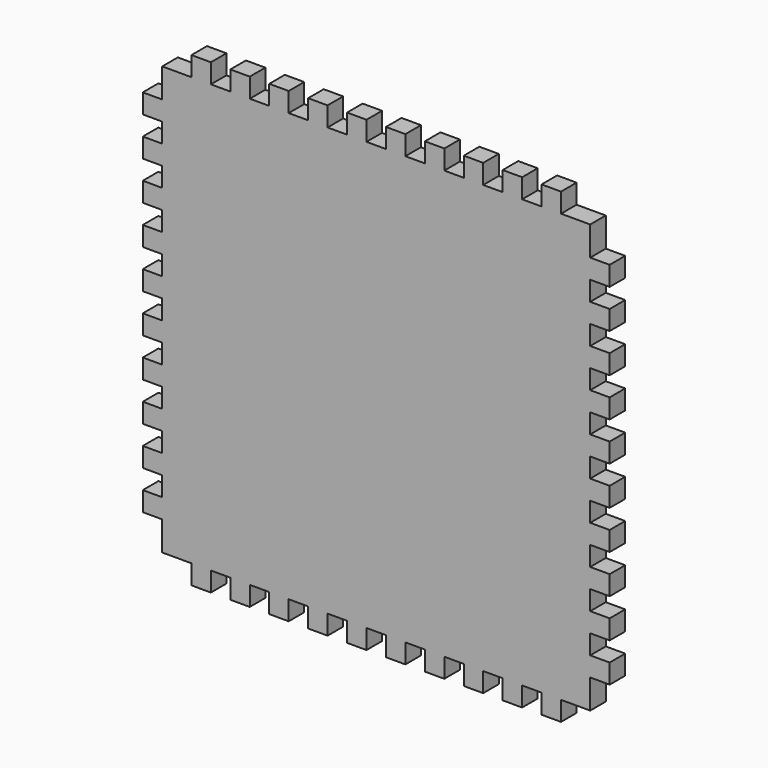
from build123d import *

# Parameters (mm, degrees)
F1_DEPTH = 12.7


with BuildPart() as f1:
    # F0 (on Front) → F1 (new body)
    with BuildSketch(Plane.XZ):
        Polygon((-120.65, 152.4), (-120.65, 139.7), (-139.7, 139.7), (-139.7, 120.65), (-152.4, 120.65), (-152.4, 107.95), (-139.7, 107.95), (-139.7, 95.25), (-152.4, 95.25), (-152.4, 82.55), (-139.7, 82.55), (-139.7, 69.85), (-152.4, 69.85), (-152.4, 57.15), (-139.7, 57.15), (-139.7, 44.45), (-152.4, 44.45), (-152.4, 31.75), (-139.7, 31.75), (-139.7, 19.05), (-152.4, 19.05), (-152.4, 6.35), (-139.7, 6.35), (-139.7, -6.35), (-152.4, -6.35), (-152.4, -19.05), (-139.7, -19.05), (-139.7, -31.75), (-152.4, -31.75), (-152.4, -44.45), (-139.7, -44.45), (-139.7, -57.15), (-152.4, -57.15), (-152.4, -69.85), (-139.7, -69.85), (-139.7, -82.55), (-152.4, -82.55), (-152.4, -95.25), (-139.7, -95.25), (-139.7, -107.95), (-152.4, -107.95), (-152.4, -120.65), (-139.7, -120.65), (-139.7, -139.7), (-120.65, -139.7), (-120.65, -152.4), (-107.95, -152.4), (-107.95, -139.7), (-95.25, -139.7), (-95.25, -152.4), (-82.55, -152.4), (-82.55, -139.7), (-69.85, -139.7), (-69.85, -152.4), (-57.15, -152.4), (-57.15, -139.7), (-44.45, -139.7), (-44.45, -152.4), (-31.75, -152.4), (-31.75, -139.7), (-19.05, -139.7), (-19.05, -152.4), (-6.35, -152.4), (-6.35, -139.7), (6.35, -139.7), (6.35, -152.4), (19.05, -152.4), (19.05, -139.7), (31.75, -139.7), (31.75, -152.4), (44.45, -152.4), (44.45, -139.7), (57.15, -139.7), (57.15, -152.4), (69.85, -152.4), (69.85, -139.7), (82.55, -139.7), (82.55, -152.4), (95.25, -152.4), (95.25, -139.7), (107.95, -139.7), (107.95, -152.4), (120.65, -152.4), (120.65, -139.7), (139.7, -139.7), (139.7, -120.65), (152.4, -120.65), (152.4, -107.95), (139.7, -107.95), (139.7, -95.25), (152.4, -95.25), (152.4, -82.55), (139.7, -82.55), (139.7, -69.85), (152.4, -69.85), (152.4, -57.15), (139.7, -57.15), (139.7, -44.45), (152.4, -44.45), (152.4, -31.75), (139.7, -31.75), (139.7, -19.05), (152.4, -19.05), (152.4, -6.35), (139.7, -6.35), (139.7, 6.35), (152.4, 6.35), (152.4, 19.05), (139.7, 19.05), (139.7, 31.75), (152.4, 31.75), (152.4, 44.45), (139.7, 44.45), (139.7, 57.15), (152.4, 57.15), (152.4, 69.85), (139.7, 69.85), (139.7, 82.55), (152.4, 82.55), (152.4, 95.25), (139.7, 95.25), (139.7, 107.95), (152.4, 107.95), (152.4, 120.65), (139.7, 120.65), (139.7, 139.7), (120.65, 139.7), (120.65, 152.4), (107.95, 152.4), (107.95, 139.7), (95.25, 139.7), (95.25, 152.4), (82.55, 152.4), (82.55, 139.7), (69.85, 139.7), (69.85, 152.4), (57.15, 152.4), (57.15, 139.7), (44.45, 139.7), (44.45, 152.4), (31.75, 152.4), (31.75, 139.7), (19.05, 139.7), (19.05, 152.4), (6.35, 152.4), (6.35, 139.7), (-6.35, 139.7), (-6.35, 152.4), (-19.05, 152.4), (-19.05, 139.7), (-31.75, 139.7), (-31.75, 152.4), (-44.45, 152.4), (-44.45, 139.7), (-57.15, 139.7), (-57.15, 152.4), (-69.85, 152.4), (-69.85, 139.7), (-82.55, 139.7), (-82.55, 152.4), (-95.25, 152.4), (-95.25, 139.7), (-107.95, 139.7), (-107.95, 152.4), align=None)
    extrude(amount=F1_DEPTH)


solid = f1.part
